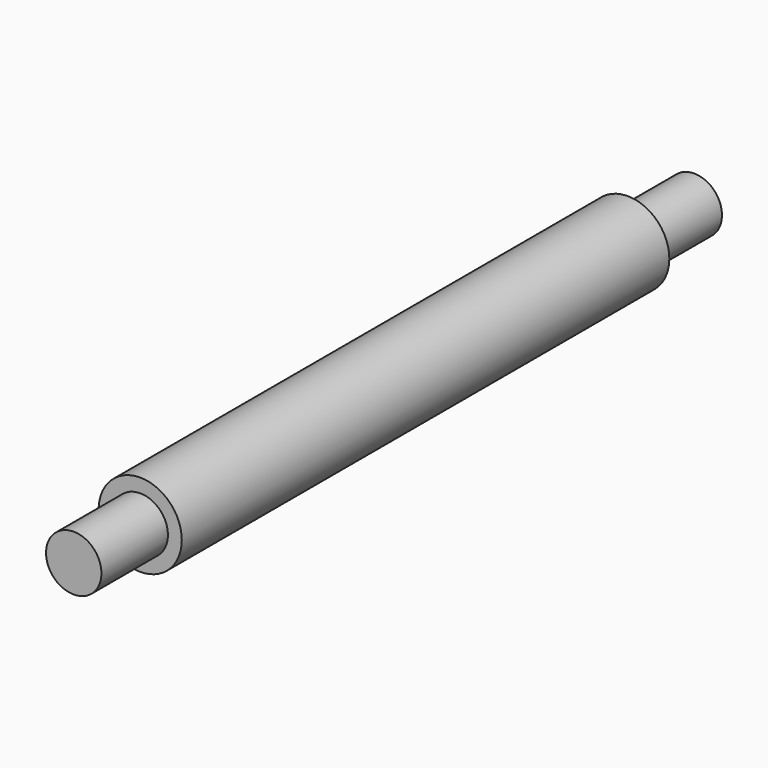
from build123d import *

# Parameters (mm, degrees)
F0_R     = 4.7625
F1_DEPTH = 44.45
F2_R     = 6.35
F2_R_2   = 3.175
F3_DEPTH = 9.525
F4_R     = 6.35
F4_R_2   = 3.175
F5_DEPTH = 9.525


with BuildPart() as f1:
    # F0 (on Front) → F1 (new body, symmetric)
    with BuildSketch(Plane.XZ):
        Circle(F0_R)
    extrude(amount=F1_DEPTH, both=True)

    # F2 (on face) → F3 (cut)
    with BuildSketch(Plane.XZ.offset(44.45)):
        Circle(F2_R)
        Circle(F2_R_2, mode=Mode.SUBTRACT)
    extrude(amount=-F3_DEPTH, mode=Mode.SUBTRACT)

    # F4 (on face) → F5 (cut)
    with BuildSketch(Plane(origin=(0, 44.45, 0), x_dir=(-1, 0, 0), z_dir=(0, 1, 0))):
        Circle(F4_R)
        Circle(F4_R_2, mode=Mode.SUBTRACT)
    extrude(amount=-F5_DEPTH, mode=Mode.SUBTRACT)


solid = f1.part
